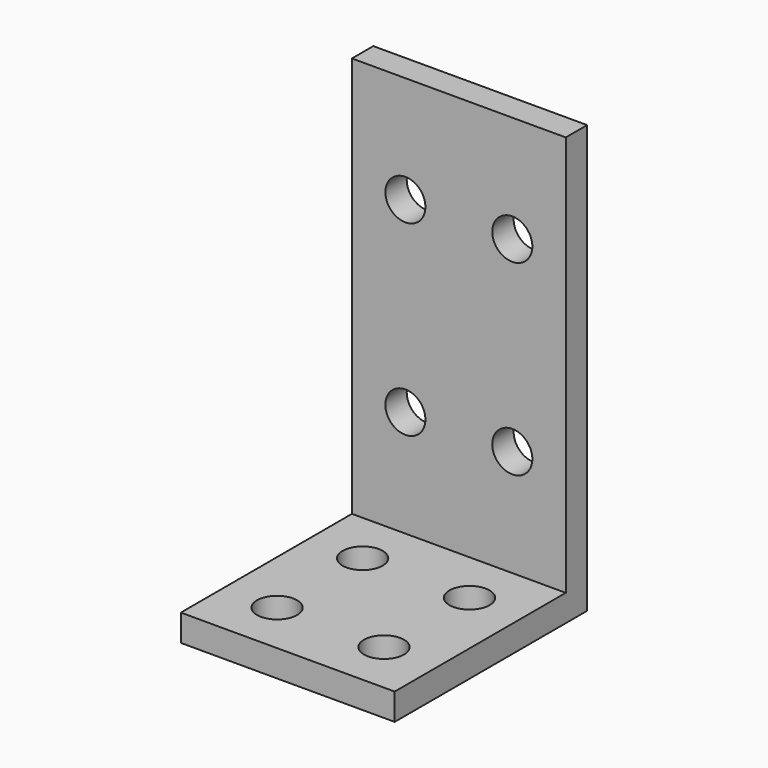
from build123d import *

# Parameters (mm, degrees)
F0_W     = 101.6
F0_H     = 203.2
F1_DEPTH = 12.7
F2_W     = 101.6
F2_H     = 12.7
F3_DEPTH = 101.6
F5_D     = 19.05
F5_DEPTH = 12.7
F7_D     = 19.05
F7_DEPTH = 12.7
F9_D     = 19.05
F9_DEPTH = 12.7


with BuildPart() as f1:
    # F0 (on Front) → F1 (new body)
    with BuildSketch(Plane.XZ):
        with Locations((50.8, 101.6)):
            Rectangle(F0_W, F0_H)
    extrude(amount=F1_DEPTH)

    # F2 (on face) → F3 (join)
    with BuildSketch(Plane.XZ.offset(12.7)):
        with Locations((50.8, 6.35)):
            Rectangle(F2_W, F2_H)
    extrude(amount=F3_DEPTH)

    # F5
    with Locations(Plane.XY.offset(12.7)):
        with Locations((25.4, -88.9)):
            Hole(F5_D / 2, depth=F5_DEPTH)

    # F7
    with Locations(Plane.XY.offset(12.7)):
        with Locations((25.4, -38.1), (76.2, -38.1), (76.2, -88.9)):
            Hole(F7_D / 2, depth=F7_DEPTH)

    # F9
    with Locations(Plane.XZ.offset(12.7)):
        with Locations((25.4, 152.4), (76.2, 152.4), (76.2, 63.5), (25.4, 63.5)):
            Hole(F9_D / 2, depth=F9_DEPTH)


solid = f1.part
